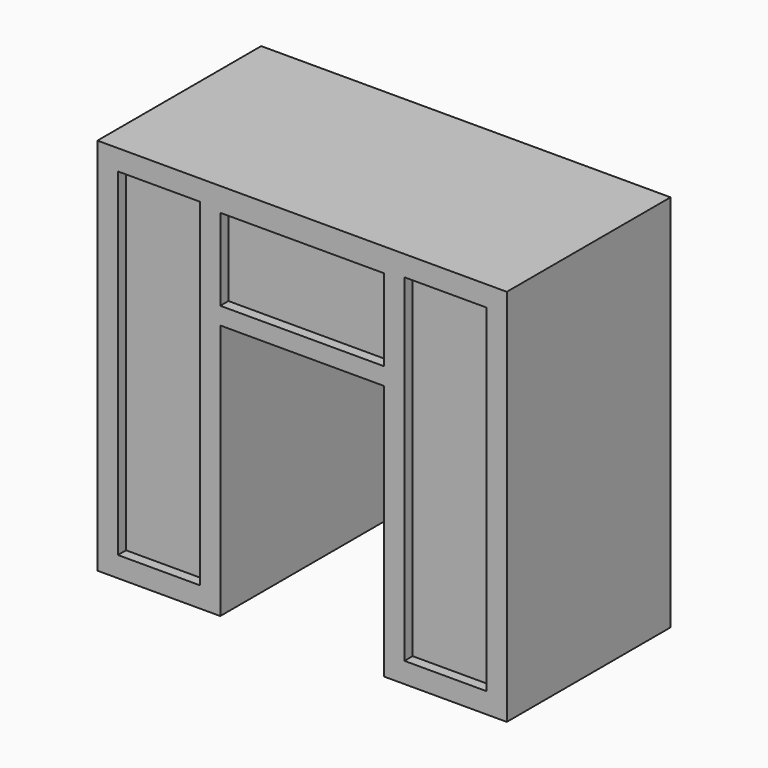
from build123d import *

# Parameters (mm, degrees)
F1_DEPTH = 200
F2_W     = 80
F2_H     = 330
F2_W_2   = 160
F2_H_2   = 80
F3_DEPTH = 10


with BuildPart() as f1:
    # F0 (on Front) → F1 (new body)
    with BuildSketch(Plane.XZ):
        Polygon((80, -185), (200, -185), (200, 185), (-200, 185), (-200, -185), (-80, -185), (-80, 65), (80, 65), align=None)
    extrude(amount=F1_DEPTH)

    # F2 (on face) → F3 (cut)
    with BuildSketch(Plane.XZ.offset(200)):
        with Locations((-140, 0)):
            Rectangle(F2_W, F2_H)
        with Locations((0, 121.946243)):
            Rectangle(F2_W_2, F2_H_2)
        with Locations((140, 0)):
            Rectangle(F2_W, F2_H)
    extrude(amount=-F3_DEPTH, mode=Mode.SUBTRACT)


solid = f1.part
